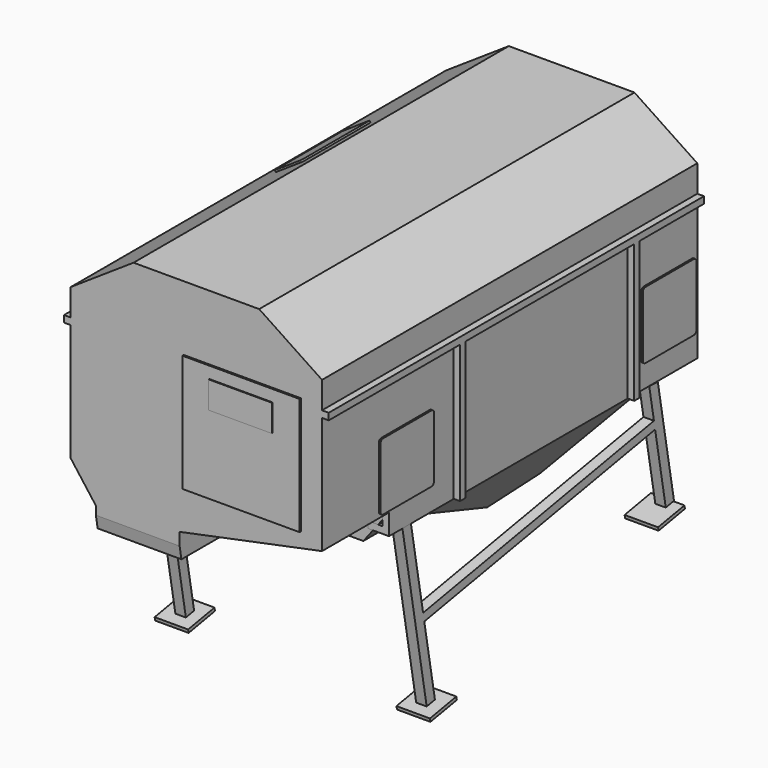
from build123d import *

# Parameters (mm, degrees)
F1_DEPTH  = 280
F4_DEPTH  = 75
F6_DEPTH  = 280
F7_DEPTH  = 50
F9_DEPTH  = 230
F11_DEPTH = 230
F13_DEPTH = 6.25
F18_DEPTH = 50
F20_DEPTH = 50
F21_R     = 7.5
F22_DEPTH = 50
F23_R     = 12.5
F24_DEPTH = 2
F25_R     = 0.25
F26_R     = 7.5
F27_DEPTH = 5
F28_DEPTH = 1
F29_R     = 12.5
F30_DEPTH = 2
F31_R     = 0.25
F32_W     = 4
F32_H     = 100.7173835766
F33_DEPTH = 4
F34_W     = 280
F34_H     = 4
F35_DEPTH = 4
F36_W     = 280
F36_H     = 4
F37_DEPTH = 4
F40_DEPTH = 1
F41_DEPTH = 1
F38_W     = 4
F38_H     = 82.5
F42_DEPTH = 4
F38_H_2   = 82.276730895
F43_DEPTH = 4
F44_W     = 4
F44_H     = 82.272995919
F44_H_2   = 82.4092521369
F45_DEPTH = 4
F46_DEPTH = 1
F47_W     = 70
F47_H     = 70
F47_W_2   = 37.702306807
F47_H_2   = 16.1488503218
F48_DEPTH = 1
F49_DEPTH = 1.5
F50_R     = 4
F51_DEPTH = 15
F52_W     = 20
F52_H     = 20
F53_DEPTH = 2
F55_DEPTH = 2.62
F56_W     = 2
F56_H     = 8
F57_DEPTH = 11
F58_R     = 0.9


with BuildPart() as f1:
    # F0 (on Front) → F1 (new body)
    with BuildSketch(Plane.XZ):
        Polygon((37.5, 115), (-37.5, 115), (-75, 90), (-75, 0), (75, 0), (75, 90), align=None)
    extrude(amount=-F1_DEPTH)

    # F3 (on Right) → F4 (join, symmetric)
    with BuildSketch(Plane.YZ):
        Polygon((280, -25), (280, 0), (52.6342308872, 0), (52.6342308872, -20), (82.6342308872, -20), (195.1342308872, -75), (229.7752470386, -70), align=None)
    extrude(amount=F4_DEPTH, both=True)

    # F5 (on face) → F6 (cut)
    with BuildSketch(Plane(origin=(0, 280, 0), x_dir=(-1, 0, 0), z_dir=(0, 1, 0))):
        Polygon((17.5, -75), (75, -75), (75, 0), align=None)
        Polygon((-17.5, -75), (-75, 0), (-75, -75), align=None)
    extrude(amount=-F6_DEPTH, mode=Mode.SUBTRACT)

    # F2 (on Front) → F7 (join)
    with BuildSketch(Plane.XZ):
        Polygon((75, 0), (-75, 0), (-60, -20), (-60, -32.5), (-10, -32.5), (-10, -17.5), align=None)
    extrude(amount=-F7_DEPTH)

    # F8 (on face) → F9 (join)
    with BuildSketch(Plane(origin=(0, 280, 0), x_dir=(-1, 0, 0), z_dir=(0, 1, 0))):
        Polygon((75, -12.5), (75, 0), (71, 0), (71, -8.5), (62.5, -8.5), (62.5, -12.5), align=None)
    extrude(amount=-F9_DEPTH)

    # F10 (on face) → F11 (join)
    with BuildSketch(Plane(origin=(0, 280, 0), x_dir=(-1, 0, 0), z_dir=(0, 1, 0))):
        Polygon((-71, 0), (-75, 0), (-75, -12.5), (-62.5, -12.5), (-62.5, -8.5), (-71, -8.5), align=None)
    extrude(amount=-F11_DEPTH)

    # F17 (on face) → F18 (cut)
    with BuildSketch(Plane.YZ.offset(-10)):
        Polygon((-0.7335497514, -20.9090494633), (-2.702152669, -21.2620403313), (-0.0547211591, -36.0265622131), (1.9138817584, -35.6735713452), align=None)
    extrude(amount=-F18_DEPTH, mode=Mode.SUBTRACT)

    # F19 (on face) → F20 (cut)
    with BuildSketch(Plane(origin=(-60, 0, 0), x_dir=(0, -1, 0), z_dir=(-1, 0, 0))):
        Polygon((-50.1480965446, -24.1740769626), (-52.1166994622, -24.5270678306), (-49.4692679524, -39.2915897125), (-47.5006650348, -38.9385988445), align=None)
    extrude(amount=-F20_DEPTH, mode=Mode.SUBTRACT)

    # F21 (on Right) → F22 (join)
    with BuildSketch(Plane.YZ):
        with Locations((212.5103323639, -65.0002060446)):
            Circle(F21_R)
    extrude(amount=-F22_DEPTH)

    # F23 (on face) → F24 (join)
    with BuildSketch(Plane(origin=(-50, 0, 0), x_dir=(0, -1, 0), z_dir=(-1, 0, 0))):
        with Locations((-212.5103323639, -65.0002060446)):
            Circle(F23_R)
    extrude(amount=-F24_DEPTH)

    # F25
    f25_edges = [f1.edges().sort_by_distance(p)[0] for p in [
        (-49, 200.010332, -65.000206),
        (-50, 225.010332, -65.000206),
        (-48, 225.010332, -65.000206),
    ]]
    fillet(f25_edges, radius=F25_R)

    # F32 (on face) → F33 (join)
    with BuildSketch(Plane(origin=(0, 280, 0), x_dir=(-1, 0, 0), z_dir=(0, 1, 0))):
        Polygon((-38.6745780706, -17.3984124791), (-55, -17.3984124791), (-55, -21.3984124791), (55, -21.3984124791), (55, -17.3984124791), (-34.6745780706, -17.3984124791), align=None)
        with Locations((-36.6745780706, 32.9602793092)):
            Rectangle(F32_W, F32_H)
    extrude(amount=F33_DEPTH)

    # F34 (on face) → F35 (join)
    with BuildSketch(Plane.YZ.offset(75)):
        with Locations((140, 72)):
            Rectangle(F34_W, F34_H)
    extrude(amount=F35_DEPTH)

    # F36 (on face) → F37 (join)
    with BuildSketch(Plane(origin=(-75, 0, 0), x_dir=(0, -1, 0), z_dir=(-1, 0, 0))):
        with Locations((-140, 72)):
            Rectangle(F36_W, F36_H)
    extrude(amount=F37_DEPTH)

    # F39 (on face) → F40 (join)
    with BuildSketch(Plane(origin=(-64.6153846154, 0, 96.9230769231), x_dir=(0.8320502943, 0, 0.5547001962), z_dir=(-0.5547001962, 0, 0.8320502943))):
        with BuildLine():
            Line((1.0539410566, 139.319807291), (19.0539410566, 139.319807291))
            ThreePointArc((19.0539410566, 139.319807291), (19.7610478378, 139.6127005098), (20.0539410566, 140.319807291))
            Line((20.0539410566, 140.319807291), (20.0539410566, 189.3944015503))
            ThreePointArc((20.0539410566, 189.3944015503), (19.7610478378, 190.1015083315), (19.0539410566, 190.3944015503))
            Line((19.0539410566, 190.3944015503), (1.0539410566, 190.3944015503))
            ThreePointArc((1.0539410566, 190.3944015503), (0.3468342754, 190.1015083315), (0.0539410566, 189.3944015503))
            Line((0.0539410566, 189.3944015503), (0.0539410566, 140.319807291))
            ThreePointArc((0.0539410566, 140.319807291), (0.3468342754, 139.6127005098), (1.0539410566, 139.319807291))
        make_face()
    extrude(amount=F40_DEPTH)

    # F38 (on face) → F41 (join)
    with BuildSketch(Plane(origin=(-75, 0, 0), x_dir=(0, -1, 0), z_dir=(-1, 0, 0))):
        with BuildLine():
            Line((-240.5, 41.5), (-275.5, 41.5))
            ThreePointArc((-275.5, 41.5), (-277.267766953, 40.767766953), (-278, 39))
            Line((-278, 39), (-278, 4))
            ThreePointArc((-278, 4), (-277.267766953, 2.232233047), (-275.5, 1.5))
            Line((-275.5, 1.5), (-240.5, 1.5))
            ThreePointArc((-240.5, 1.5), (-238.732233047, 2.232233047), (-238, 4))
            Line((-238, 4), (-238, 39))
            ThreePointArc((-238, 39), (-238.732233047, 40.767766953), (-240.5, 41.5))
        make_face()
        with BuildLine():
            ThreePointArc((-130, 35.5), (-130.2928932188, 36.2071067812), (-131, 36.5))
            Line((-131, 36.5), (-199, 36.5))
            ThreePointArc((-199, 36.5), (-199.7071067812, 36.2071067812), (-200, 35.5))
            Line((-200, 35.5), (-200, 7.5))
            ThreePointArc((-200, 7.5), (-199.7071067812, 6.7928932188), (-199, 6.5))
            Line((-199, 6.5), (-131, 6.5))
            ThreePointArc((-131, 6.5), (-130.2928932188, 6.7928932188), (-130, 7.5))
            Line((-130, 7.5), (-130, 35.5))
        make_face()
        with BuildLine():
            Line((-45, 41.5), (-80, 41.5))
            ThreePointArc((-80, 41.5), (-81.767766953, 40.767766953), (-82.5, 39))
            Line((-82.5, 39), (-82.5, 4))
            ThreePointArc((-82.5, 4), (-81.767766953, 2.232233047), (-80, 1.5))
            Line((-80, 1.5), (-45, 1.5))
            ThreePointArc((-45, 1.5), (-43.232233047, 2.232233047), (-42.5, 4))
            Line((-42.5, 4), (-42.5, 39))
            ThreePointArc((-42.5, 39), (-43.232233047, 40.767766953), (-45, 41.5))
        make_face()
    extrude(amount=F41_DEPTH)

    # F38 (on face) → F42 (join)
    with BuildSketch(Plane(origin=(-75, 0, 0), x_dir=(0, -1, 0), z_dir=(-1, 0, 0))):
        with Locations((-230, 28.75)):
            Rectangle(F38_W, F38_H)
    extrude(amount=F42_DEPTH)

    # F38 (on face) → F43 (join)
    with BuildSketch(Plane(origin=(-75, 0, 0), x_dir=(0, -1, 0), z_dir=(-1, 0, 0))):
        with Locations((-100, 28.8616345525)):
            Rectangle(F38_W, F38_H_2)
    extrude(amount=F43_DEPTH)

    # F44 (on face) → F45 (join)
    with BuildSketch(Plane.YZ.offset(75)):
        with Locations((99.998652935, 28.8635020405)):
            Rectangle(F44_W, F44_H)
        with Locations((229.9769073725, 28.7953739315)):
            Rectangle(F44_W, F44_H_2)
    extrude(amount=F45_DEPTH)

    # F44 (on face) → F46 (join)
    with BuildSketch(Plane.YZ.offset(75)):
        with BuildLine():
            ThreePointArc((82.3398423195, 39.5519014746), (81.7540558819, 40.966115037), (80.3398423195, 41.5519014746))
            Line((80.3398423195, 41.5519014746), (44.3398423195, 41.5519014746))
            ThreePointArc((44.3398423195, 41.5519014746), (42.9256287571, 40.966115037), (42.3398423195, 39.5519014746))
            Line((42.3398423195, 39.5519014746), (42.3398423195, 3.5519014746))
            ThreePointArc((42.3398423195, 3.5519014746), (42.9256287571, 2.1376879122), (44.3398423195, 1.5519014746))
            Line((44.3398423195, 1.5519014746), (80.3398423195, 1.5519014746))
            ThreePointArc((80.3398423195, 1.5519014746), (81.7540558819, 2.1376879122), (82.3398423195, 3.5519014746))
            Line((82.3398423195, 3.5519014746), (82.3398423195, 39.5519014746))
        make_face()
        with BuildLine():
            ThreePointArc((278.121073246, 39.5285476297), (277.5352868084, 40.9427611921), (276.121073246, 41.5285476297))
            Line((276.121073246, 41.5285476297), (240.121073246, 41.5285476297))
            ThreePointArc((240.121073246, 41.5285476297), (238.7068596836, 40.9427611921), (238.121073246, 39.5285476297))
            Line((238.121073246, 39.5285476297), (238.121073246, 3.5285476297))
            ThreePointArc((238.121073246, 3.5285476297), (238.7068596836, 2.1143340673), (240.121073246, 1.5285476297))
            Line((240.121073246, 1.5285476297), (276.121073246, 1.5285476297))
            ThreePointArc((276.121073246, 1.5285476297), (277.5352868084, 2.1143340673), (278.121073246, 3.5285476297))
            Line((278.121073246, 3.5285476297), (278.121073246, 39.5285476297))
        make_face()
    extrude(amount=F46_DEPTH)

    # F47 (on face) → F48 (join)
    with BuildSketch(Plane.XZ):
        with Locations((27.3749382794, 41.2547889538)):
            Rectangle(F47_W, F47_H)
        with Locations((27.3749382794, 61.1608847976)):
            Rectangle(F47_W_2, F47_H_2, mode=Mode.SUBTRACT)
    extrude(amount=F48_DEPTH)

    # F49 (add): a face of the model
    f49_faces = [f1.faces().sort_by_distance(p)[0] for p in [
        (27.3749382794, 0, 61.1608847976),
    ]]
    extrude(f49_faces, amount=F49_DEPTH)

    # F50 (on face) → F51 (join)
    with BuildSketch(Plane(origin=(0, 280, 0), x_dir=(-1, 0, 0), z_dir=(0, 1, 0))):
        with Locations((50.5306906998, -7.3984124791)):
            Circle(F50_R)
    extrude(amount=F51_DEPTH)

    # F54 (on face) → F55 (join)
    with BuildSketch(Plane.XZ.offset(-52.6342308872)):
        Polygon((-59.6666666667, -20), (59.6666666667, -20), (73, -2.6086956522), (73, 1.8387353048), (-72.4813342094, 1.8387353048), (-72.4813342094, 0.8397259517), (-65.4166666667, -12.5), align=None)
    extrude(amount=F55_DEPTH)

    # F56 (on face) → F57 (cut)
    with BuildSketch(Plane(origin=(0, 0, -21.3984124791), x_dir=(1, 0, 0), z_dir=(0, 0, -1))):
        with Locations((-50.5347587168, -290.5696300322)):
            Rectangle(F56_W, F56_H)
    extrude(amount=-F57_DEPTH, mode=Mode.SUBTRACT)

    # F58
    f58_edges = [f1.edges().sort_by_distance(p)[0] for p in [
        (-49.534759, 286.56963, -10.835428),
        (-51.534759, 286.56963, -10.834378),
        (-51.534759, 294.56963, -10.834378),
        (-49.534759, 294.56963, -10.835428),
    ]]
    fillet(f58_edges, radius=F58_R)


with BuildPart() as f13:
    # F12 (on face) → F13 (new body)
    with BuildSketch(Plane.YZ.offset(75)):
        Polygon((66.3283795514, -12.3812049964), (60, -12.5), (78.090781984, -113.3908995262), (84.2426661015, -112.2878030638), (76.3003715719, -67.9942374181), (248.5531268605, -37.1075364698), (256.4954213901, -81.4011021155), (262.6473055076, -80.298005653), (250.5573682792, -12.8733557257), (244.1407410108, -12.5), (247.6706496906, -32.1860291758), (75.4178944019, -63.0727301242), align=None)
    extrude(amount=-F13_DEPTH)


with BuildPart() as f14_1:
    # F14: copy of F13
    add(f13.part.moved(Location((150, 0, 0))))


with BuildPart() as f16_1:
    # F16: copy of F13
    add(f13.part.moved(Location((-143.75, 0, 0))))


with BuildPart() as f27:
    # F26 (on face) → F27 (new body)
    with BuildSketch(Plane(origin=(0, 280, 0), x_dir=(-1, 0, 0), z_dir=(0, 1, 0))):
        with Locations((0, 38.1487682462)):
            Circle(F26_R)
    extrude(amount=F27_DEPTH)

    # F29 (on face) → F30 (join)
    with BuildSketch(Plane(origin=(0, 285, 0), x_dir=(-1, 0, 0), z_dir=(0, 1, 0))):
        with Locations((0, 38.1487682462)):
            Circle(F29_R)
    extrude(amount=F30_DEPTH)

    # F31
    f31_edges = [f27.edges().sort_by_distance(p)[0] for p in [
        (-12.5, 286, 38.148768),
        (12.5, 285, 38.148768),
        (12.5, 287, 38.148768),
    ]]
    fillet(f31_edges, radius=F31_R)


with BuildPart() as f28:
    # F26 (on face) → F28 (new body)
    with BuildSketch(Plane(origin=(0, 280, 0), x_dir=(-1, 0, 0), z_dir=(0, 1, 0))):
        with BuildLine():
            Line((17.5, 55.105060339), (-17.5, 55.105060339))
            ThreePointArc((-17.5, 55.105060339), (-21.0355339059, 53.6405942449), (-22.5, 50.105060339))
            Line((-22.5, 50.105060339), (-22.5, -9.894939661))
            ThreePointArc((-22.5, -9.894939661), (-21.0355339059, -13.430473567), (-17.5, -14.894939661))
            Line((-17.5, -14.894939661), (17.5, -14.894939661))
            ThreePointArc((17.5, -14.894939661), (21.0355339059, -13.430473567), (22.5, -9.894939661))
            Line((22.5, -9.894939661), (22.5, 50.105060339))
            ThreePointArc((22.5, 50.105060339), (21.0355339059, 53.6405942449), (17.5, 55.105060339))
        make_face()
        with Locations((0, 38.1487682462)):
            Circle(F26_R, mode=Mode.SUBTRACT)
    extrude(amount=F28_DEPTH)


with BuildPart() as f53:
    # F52 (on face) → F53 (new body)
    with BuildSketch(Plane(origin=(0, 22.1313791915, -123.4249993373), x_dir=(1, 0, 0), z_dir=(0, 0.176495434, -0.9843014588))):
        with Locations((-71.875, -59.8370991647)):
            Rectangle(F52_W, F52_H)
    extrude(amount=F53_DEPTH)


with BuildPart() as f53b:
    # F52 (on face) → F53, piece 2 (new body)
    with BuildSketch(Plane(origin=(0, 22.1313791915, -123.4249993373), x_dir=(1, 0, 0), z_dir=(0, 0.176495434, -0.9843014588))):
        with Locations((72.297975421, -60.0745603442)):
            Rectangle(F52_W, F52_H)
    extrude(amount=F53_DEPTH)


with BuildPart() as f53c:
    # F52 (on face) → F53, piece 3 (new body)
    with BuildSketch(Plane(origin=(0, 22.1313791915, -123.4249993373), x_dir=(1, 0, 0), z_dir=(0, 0.176495434, -0.9843014588))):
        with Locations((71.5967863798, -233.8943630457)):
            Rectangle(F52_W, F52_H)
    extrude(amount=F53_DEPTH)


with BuildPart() as f53d:
    # F52 (on face) → F53, piece 4 (new body)
    with BuildSketch(Plane(origin=(0, 22.1313791915, -123.4249993373), x_dir=(1, 0, 0), z_dir=(0, 0.176495434, -0.9843014588))):
        with Locations((-71.8361362815, -233.4986329079)):
            Rectangle(F52_W, F52_H)
    extrude(amount=F53_DEPTH)


solid = Compound([f1.part, f13.part, f16_1.part, f27.part, f28.part, f53.part, f53b.part, f53c.part, f53d.part])
